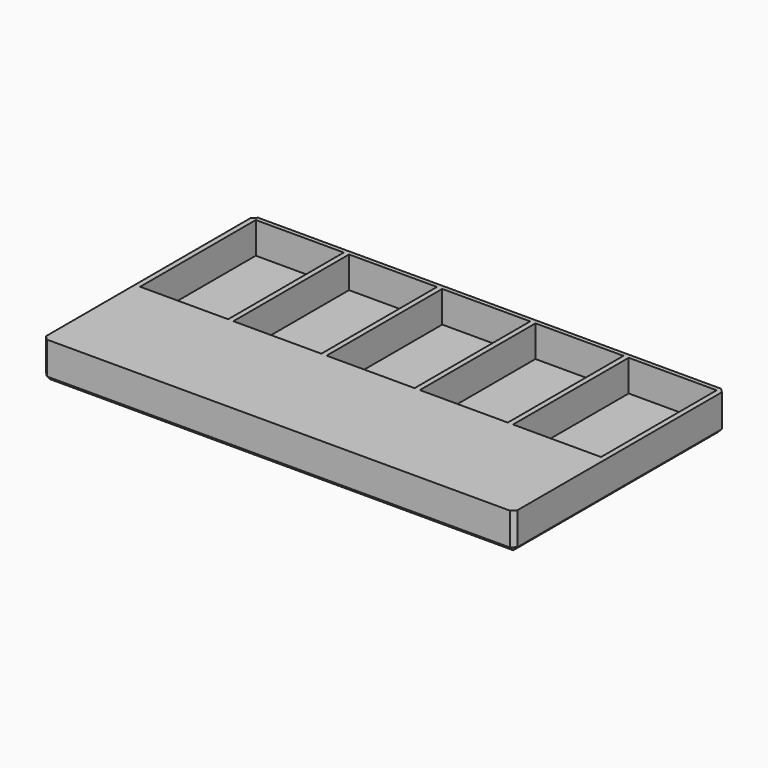
from build123d import *

# Parameters (mm, degrees)
F1_DEPTH = 17.5
F2_SIZE  = 2
F3_W     = 42
F3_H     = 69
F4_DEPTH = 15


with BuildPart() as f1:
    # F0 (on Top) → F1 (new body)
    with BuildSketch(Plane.XY):
        Polygon((112.5, 63), (0, 63), (-112.5, 63), (-112.5, 0), (-112.5, -63), (0, -63), (112.5, -63), (112.5, 0), align=None)
    extrude(amount=F1_DEPTH)

    # F2
    f2_edges = [f1.edges().sort_by_distance(p)[0] for p in [
        (-112.5, 0, 0),
        (0, -63, 0),
        (112.5, 0, 0),
        (0, 63, 0),
        (-112.5, -63, 8.75),
        (112.5, -63, 8.75),
        (112.5, 63, 8.75),
        (-112.5, 63, 8.75),
    ]]
    chamfer(f2_edges, length=F2_SIZE)

    # F3 (on face) → F4 (cut)
    with BuildSketch(Plane.XY.offset(17.5)):
        with Locations((89, 26.5)):
            Rectangle(F3_W, F3_H)
        with Locations((44.5, 26.5)):
            Rectangle(F3_W, F3_H)
        with Locations((0, 26.5)):
            Rectangle(F3_W, F3_H)
        with Locations((-44.5, 26.5)):
            Rectangle(F3_W, F3_H)
        with Locations((-89, 26.5)):
            Rectangle(F3_W, F3_H)
    extrude(amount=-F4_DEPTH, mode=Mode.SUBTRACT)


solid = f1.part
